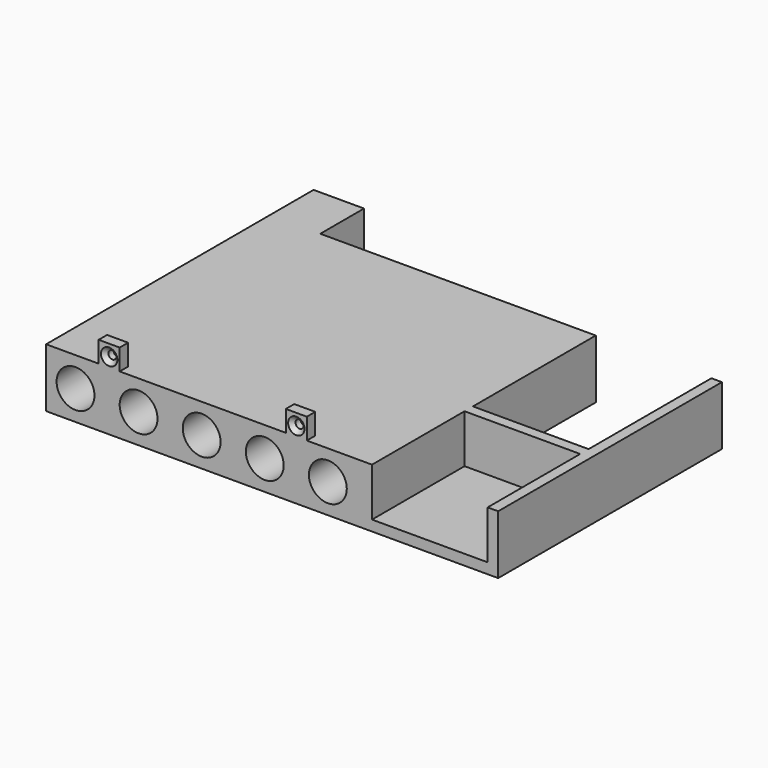
from build123d import *

# Parameters (mm, degrees)
CYLINDER004_R     = 9
CYLINDER004_DEPTH = 130
CYLINDER003_R     = 9
CYLINDER003_DEPTH = 130
CYLINDER002_R     = 9
CYLINDER002_DEPTH = 130
CYLINDER001_R     = 9
CYLINDER001_DEPTH = 130
CYLINDER_R        = 9
CYLINDER_DEPTH    = 156
BOX007_W          = 8
BOX007_H          = 165
BOX007_DEPTH      = 15
BOX006_W          = 8
BOX006_H          = 165
BOX006_DEPTH      = 15
BOX005_W          = 8
BOX005_H          = 165
BOX005_DEPTH      = 15
BOX004_W          = 8
BOX004_H          = 165
BOX004_DEPTH      = 15
BOX003_W          = 197
BOX003_H          = 103
BOX003_DEPTH      = 33
BOX002_W          = 55
BOX002_H          = 103
BOX002_DEPTH      = 34
BOX001_W          = 55
BOX001_H          = 55
BOX001_DEPTH      = 23
BOX_W             = 215
BOX_H             = 159
BOX_DEPTH         = 28
PAD_DEPTH         = 5
HOLE_D            = 3.9
HOLE_DEPTH        = 25
HOLE_CSINK_D      = 7.8
HOLE_CSINK_ANGLE  = 90


with BuildPart() as cylinder004:
    # Cylinder004 → Cylinder004 (new body)
    with BuildSketch(Plane(origin=(134, 130, 14), x_dir=(1, 0, 0), z_dir=(0, -1, 0))):
        Circle(CYLINDER004_R)
    extrude(amount=CYLINDER004_DEPTH)


with BuildPart() as cylinder003:
    # Cylinder003 → Cylinder003 (new body)
    with BuildSketch(Plane(origin=(104, 130, 14), x_dir=(1, 0, 0), z_dir=(0, -1, 0))):
        Circle(CYLINDER003_R)
    extrude(amount=CYLINDER003_DEPTH)


with BuildPart() as cylinder002:
    # Cylinder002 → Cylinder002 (new body)
    with BuildSketch(Plane(origin=(74, 130, 14), x_dir=(1, 0, 0), z_dir=(0, -1, 0))):
        Circle(CYLINDER002_R)
    extrude(amount=CYLINDER002_DEPTH)


with BuildPart() as cylinder001:
    # Cylinder001 → Cylinder001 (new body)
    with BuildSketch(Plane(origin=(44, 130, 14), x_dir=(1, 0, 0), z_dir=(0, -1, 0))):
        Circle(CYLINDER001_R)
    extrude(amount=CYLINDER001_DEPTH)


with BuildPart() as cylinder:
    # Cylinder → Cylinder (new body)
    with BuildSketch(Plane(origin=(14, 156, 14), x_dir=(1, 0, 0), z_dir=(0, -1, 0))):
        Circle(CYLINDER_R)
    extrude(amount=CYLINDER_DEPTH)


with BuildPart() as cube007:
    # Box007 → Box007 (new body)
    with BuildSketch(Plane(origin=(115, 3, 0), x_dir=(1, 0, 0), z_dir=(0, 0, 1))):
        with Locations((4, 82.5)):
            Rectangle(BOX007_W, BOX007_H)
    extrude(amount=BOX007_DEPTH)


with BuildPart() as cube006:
    # Box006 → Box006 (new body)
    with BuildSketch(Plane(origin=(85, 3, 0), x_dir=(1, 0, 0), z_dir=(0, 0, 1))):
        with Locations((4, 82.5)):
            Rectangle(BOX006_W, BOX006_H)
    extrude(amount=BOX006_DEPTH)


with BuildPart() as cube005:
    # Box005 → Box005 (new body)
    with BuildSketch(Plane(origin=(55, 3, 0), x_dir=(1, 0, 0), z_dir=(0, 0, 1))):
        with Locations((4, 82.5)):
            Rectangle(BOX005_W, BOX005_H)
    extrude(amount=BOX005_DEPTH)


with BuildPart() as cube004:
    # Box004 → Box004 (new body)
    with BuildSketch(Plane(origin=(25, 3, 0), x_dir=(1, 0, 0), z_dir=(0, 0, 1))):
        with Locations((4, 82.5)):
            Rectangle(BOX004_W, BOX004_H)
    extrude(amount=BOX004_DEPTH)


with BuildPart() as cube003:
    # Box003 → Box003 (new body)
    with BuildSketch(Plane(origin=(24, 133, -3), x_dir=(1, 0, 0), z_dir=(0, 0, 1))):
        with Locations((98.5, 51.5)):
            Rectangle(BOX003_W, BOX003_H)
    extrude(amount=BOX003_DEPTH)


with BuildPart() as cube002:
    # Box002 → Box002 (new body)
    with BuildSketch(Plane(origin=(155, 60, -3), x_dir=(1, 0, 0), z_dir=(0, 0, 1))):
        with Locations((27.5, 51.5)):
            Rectangle(BOX002_W, BOX002_H)
    extrude(amount=BOX002_DEPTH)


with BuildPart() as cube001:
    # Box001 → Box001 (new body)
    with BuildSketch(Plane(origin=(155, 0, 5), x_dir=(1, 0, 0), z_dir=(0, 0, 1))):
        with Locations((27.5, 27.5)):
            Rectangle(BOX001_W, BOX001_H)
    extrude(amount=BOX001_DEPTH)


with BuildPart() as cut011:
    # Box → Box (new body)
    with BuildSketch(Plane.XY):
        with Locations((107.5, 79.5)):
            Rectangle(BOX_W, BOX_H)
    extrude(amount=BOX_DEPTH)

    # Cut: cut Cube001
    add(cube001.part, mode=Mode.SUBTRACT)

    # Cut001: cut Cube002
    add(cube002.part, mode=Mode.SUBTRACT)

    # Cut002: cut Cube003
    add(cube003.part, mode=Mode.SUBTRACT)

    # Cut003: cut Cube004
    add(cube004.part, mode=Mode.SUBTRACT)

    # Cut004: cut Cube005
    add(cube005.part, mode=Mode.SUBTRACT)

    # Cut005: cut Cube006
    add(cube006.part, mode=Mode.SUBTRACT)

    # Cut006: cut Cube007
    add(cube007.part, mode=Mode.SUBTRACT)

    # Cut007: cut Cylinder
    add(cylinder.part, mode=Mode.SUBTRACT)

    # Cut008: cut Cylinder001
    add(cylinder001.part, mode=Mode.SUBTRACT)

    # Cut009: cut Cylinder002
    add(cylinder002.part, mode=Mode.SUBTRACT)

    # Cut010: cut Cylinder003
    add(cylinder003.part, mode=Mode.SUBTRACT)

    # Cut011: cut Cylinder004
    add(cylinder004.part, mode=Mode.SUBTRACT)


with BuildPart() as fusion:
    # Sketch → Pad (new body)
    with BuildSketch(Plane.XZ):
        Polygon((25, 38), (35, 38), (35, 28), (114, 28), (114, 38), (124, 38), (124, 27), (114, 27), (35, 27), (25, 27), align=None)
    extrude(amount=PAD_DEPTH)

    # Hole
    with Locations(Plane.XZ.offset(5)):
        with Locations((30, 32.5), (119, 32.5)):
            CounterSinkHole(HOLE_D / 2, HOLE_CSINK_D / 2, depth=HOLE_DEPTH, counter_sink_angle=HOLE_CSINK_ANGLE)


with BuildPart() as fusion_1:
    # Body placement: moved
    add(fusion.part.moved(Location((0, 5, 0))))

    # Fusion: union Cut011
    add(cut011.part)


solid = fusion_1.part
